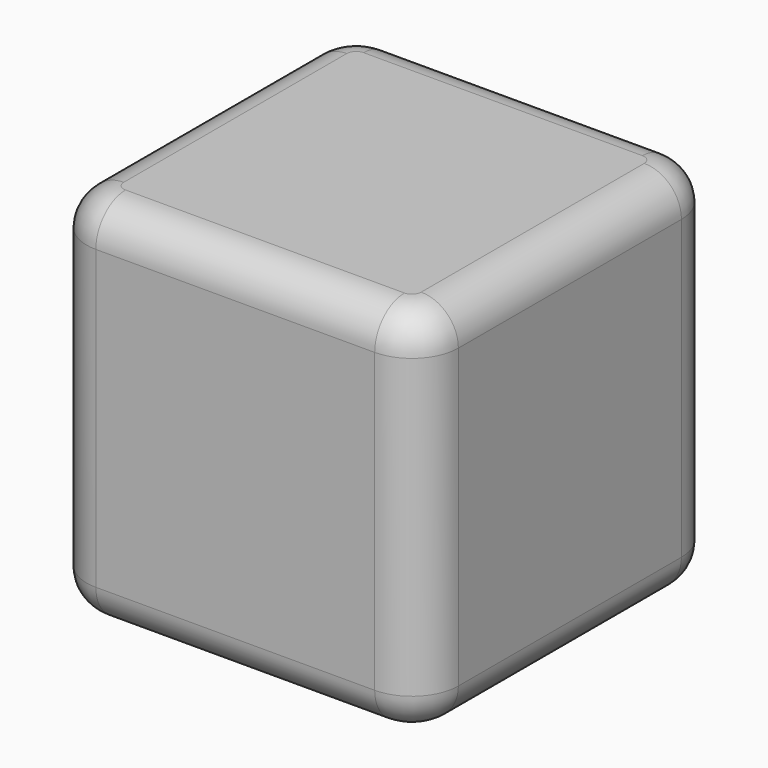
from build123d import *

# Parameters (mm, degrees)
F1_DEPTH = 50.8
F2_R     = 5.08


with BuildPart() as f1:
    # F0 (on Top) → F1 (new body)
    with BuildSketch(Plane.XY):
        with BuildLine():
            Line((-19.05, -25.4), (19.05, -25.4))
            ThreePointArc((19.05, -25.4), (23.540128, -23.540128), (25.4, -19.05))
            Line((25.4, -19.05), (25.4, 19.05))
            ThreePointArc((25.4, 19.05), (23.540128, 23.540128), (19.05, 25.4))
            Line((19.05, 25.4), (-19.05, 25.4))
            ThreePointArc((-19.05, 25.4), (-23.540128, 23.540128), (-25.4, 19.05))
            Line((-25.4, 19.05), (-25.4, -19.05))
            ThreePointArc((-25.4, -19.05), (-23.540128, -23.540128), (-19.05, -25.4))
        make_face()
    extrude(amount=F1_DEPTH)

    # F2
    f2_edges = [f1.edges().sort_by_distance(p)[0] for p in [
        (-25.4, 0, 50.8),
        (-25.4, 0, 0),
    ]]
    fillet(f2_edges, radius=F2_R)


solid = f1.part
